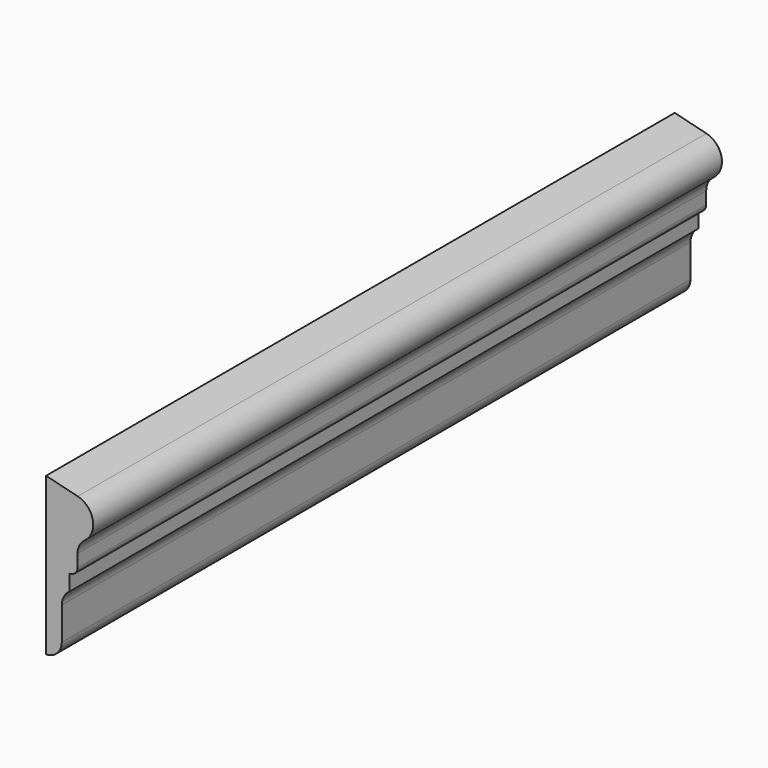
from build123d import *

# Parameters (mm, degrees)
F1_DEPTH = 500


with BuildPart() as f1:
    # F0 (on Front) → F1 (new body)
    with BuildSketch(Plane.XZ):
        with BuildLine():
            Line((0, 100), (0, 0))
            ThreePointArc((0, 0), (7.071068, 2.928932), (10, 10))
            Line((10, 10), (10, 30.780456))
            ThreePointArc((10, 30.780456), (11.33046, 36.0245), (15, 40))
            Line((15, 40), (15, 50))
            ThreePointArc((15, 50), (18.535534, 51.464466), (20, 55))
            Line((20, 55), (20, 62.88966))
            ThreePointArc((20, 62.88966), (21.212678, 67.91045), (24.583333, 71.824222))
            ThreePointArc((24.583333, 71.824222), (29.766783, 84.834626), (20.133304, 95))
            Line((20.133304, 95), (0, 100))
        make_face()
    extrude(amount=F1_DEPTH)


solid = f1.part
